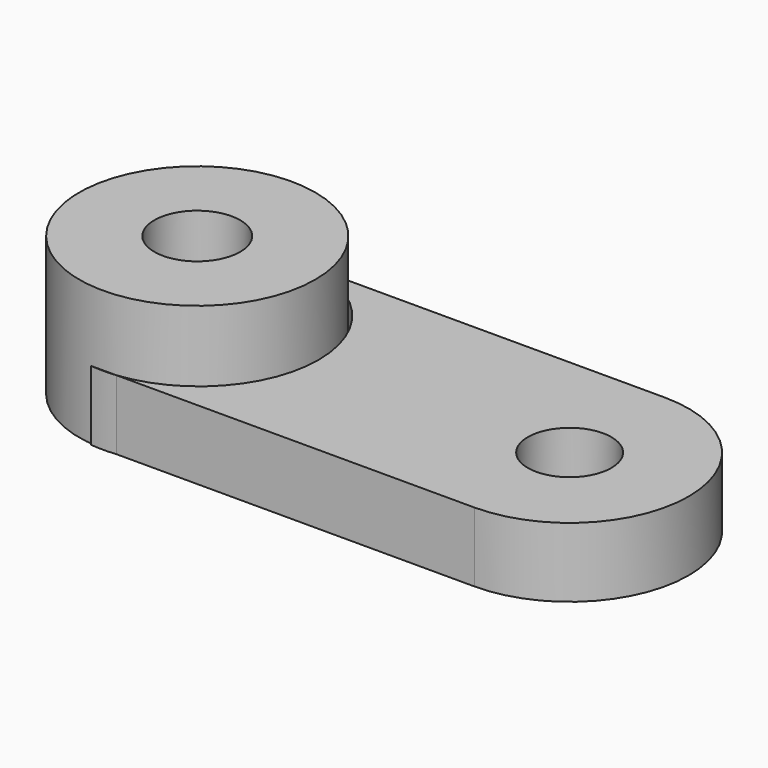
from build123d import *

# Parameters (mm, degrees)
F0_R     = 43.150422
F0_R_2   = 15.691844
F1_DEPTH = 50.8
F2_R     = 15.269371
F3_DEPTH = 25.4


with BuildPart() as f1:
    # F0 (on Top) → F1 (new body)
    with BuildSketch(Plane.XY):
        with Locations((-66.719137, 0)):
            Circle(F0_R)
        with Locations((-66.719137, 0)):
            Circle(F0_R_2, mode=Mode.SUBTRACT)
    extrude(amount=F1_DEPTH)


with BuildPart() as f3:
    # F2 (on Top) → F3 (new body)
    with BuildSketch(Plane.XY):
        with BuildLine():
            ThreePointArc((-61.482416, 43.522086), (-66.089098, 43.765209), (-70.69578, 43.522086))
            Line((-70.69578, 43.522086), (-61.482416, 43.522086))
        make_face()
        with BuildLine():
            ThreePointArc((-70.69578, -43.522097), (-66.089098, -43.76522), (-61.482416, -43.522097))
            Line((-61.482416, -43.522097), (-70.69578, -43.522097))
        make_face()
        with BuildLine():
            Line((69.37024, 43.522086), (-61.482416, 43.522086))
            ThreePointArc((-61.482416, 43.522086), (-22.323884, -6e-06), (-61.482416, -43.522097))
            Line((-61.482416, -43.522097), (69.37024, -43.522097))
            ThreePointArc((69.37024, -43.522097), (112.892332, -6e-06), (69.37024, 43.522086))
        make_face()
        with Locations((69.37024, -6e-06)):
            Circle(F2_R, mode=Mode.SUBTRACT)
        with BuildLine():
            Line((69.37024, 43.522086), (-61.482416, 43.522086))
            ThreePointArc((-61.482416, 43.522086), (-22.323884, -6e-06), (-61.482416, -43.522097))
            Line((-61.482416, -43.522097), (69.37024, -43.522097))
            ThreePointArc((69.37024, -43.522097), (112.892332, -6e-06), (69.37024, 43.522086))
        make_face()
        with Locations((69.37024, -6e-06)):
            Circle(F2_R, mode=Mode.SUBTRACT)
    extrude(amount=F3_DEPTH)


solid = Compound([f1.part, f3.part])
